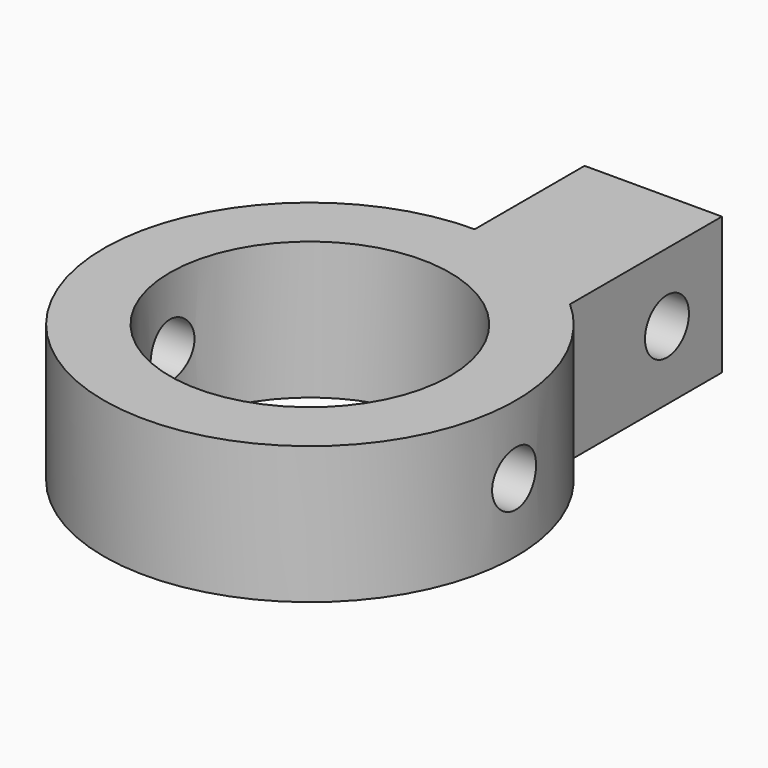
from build123d import *

# Parameters (mm, degrees)
CYLINDER003_R     = 2
CYLINDER003_DEPTH = 10
CYLINDER004_R     = 2
CYLINDER004_DEPTH = 30
CYLINDER001_R     = 10.2
CYLINDER001_DEPTH = 10
BOX_W             = 10
BOX_H             = 15
BOX_DEPTH         = 10
CYLINDER_R        = 15
CYLINDER_DEPTH    = 10


with BuildPart() as cylinder003:
    # Cylinder003 → Cylinder003 (new body)
    with BuildSketch(Plane(origin=(10, 20, 0), x_dir=(0, 0, 1), z_dir=(-1, 0, 0))):
        Circle(CYLINDER003_R)
    extrude(amount=CYLINDER003_DEPTH)


with BuildPart() as cylinder004:
    # Cylinder004 → Cylinder004 (new body)
    with BuildSketch(Plane.ZY.offset(-15)):
        Circle(CYLINDER004_R)
    extrude(amount=CYLINDER004_DEPTH)


with BuildPart() as negative_fusion:
    # Cylinder001 → Cylinder001 (new body)
    with BuildSketch(Plane.XY.offset(-5)):
        Circle(CYLINDER001_R)
    extrude(amount=CYLINDER001_DEPTH)

    # Fusion: union Cylinder003, Cylinder004
    add(cylinder003.part)
    add(cylinder004.part)


with BuildPart() as cube:
    # Box → Box (new body)
    with BuildSketch(Plane(origin=(0, 10, -5), x_dir=(1, 0, 0), z_dir=(0, 0, 1))):
        with Locations((5, 7.5)):
            Rectangle(BOX_W, BOX_H)
    extrude(amount=BOX_DEPTH)


with BuildPart() as cut:
    # Cylinder → Cylinder (new body)
    with BuildSketch(Plane.XY.offset(-5)):
        Circle(CYLINDER_R)
    extrude(amount=CYLINDER_DEPTH)

    # Fusion001: union Cube
    add(cube.part)

    # Cut: cut Negative Fusion
    add(negative_fusion.part, mode=Mode.SUBTRACT)


solid = cut.part
